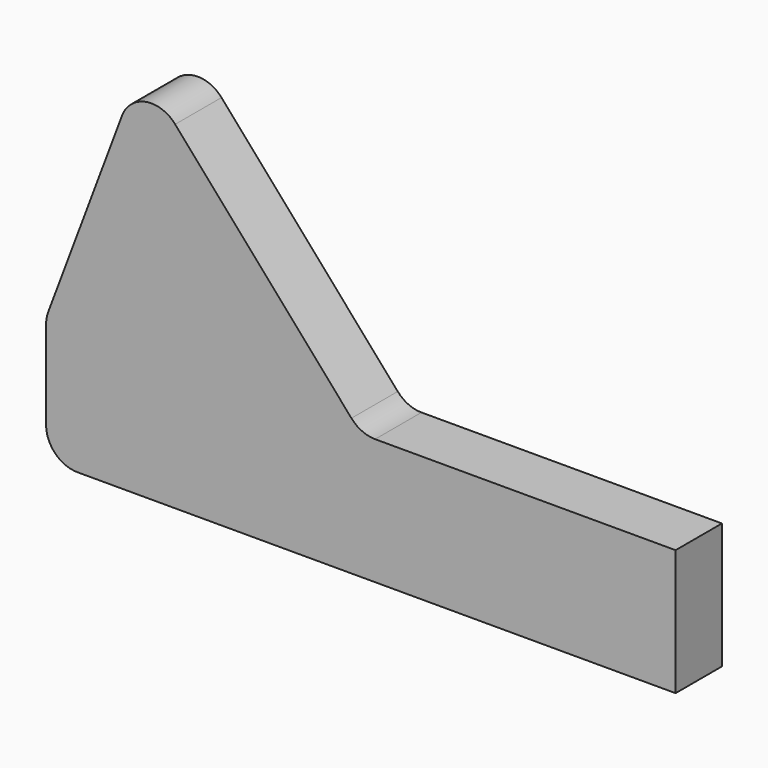
from build123d import *

# Parameters (mm, degrees)
F1_DEPTH = 5.842
F2_R     = 3.175
F3_R     = 3.175


with BuildPart() as f1:
    # F0 (on Front) → F1 (new body)
    with BuildSketch(Plane.XZ):
        Polygon((31.75, 6.35), (0, 6.35), (-22.225, 31.75), (-31.75, 6.35), (-31.75, -6.35), (31.75, -6.35), align=None)
    extrude(amount=F1_DEPTH)

    # F2
    f2_edges = [f1.edges().sort_by_distance(p)[0] for p in [
        (0, -2.921, 6.35),
        (-31.75, -2.921, 6.35),
        (-31.75, -2.921, -6.35),
    ]]
    fillet(f2_edges, radius=F2_R)

    # F3
    f3_edges = [f1.edges().sort_by_distance(p)[0] for p in [
        (-22.225, -2.921, 31.75),
    ]]
    fillet(f3_edges, radius=F3_R)


solid = f1.part
